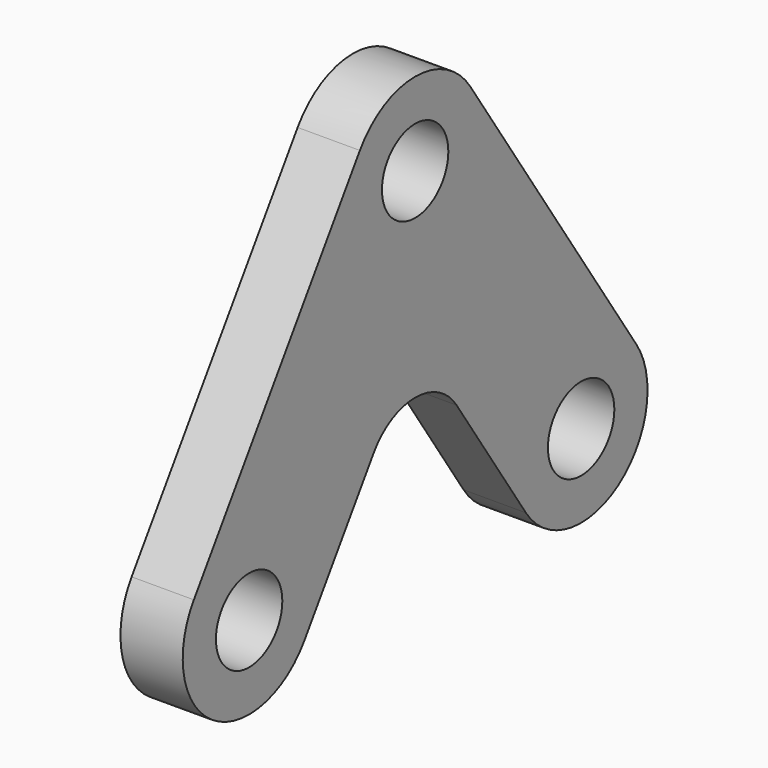
from build123d import *

# Parameters (mm, degrees)
F0_R     = 4
F1_DEPTH = 6


with BuildPart() as f1:
    # F0 (on Right) → F1 (new body)
    with BuildSketch(Plane.YZ):
        with BuildLine():
            Line((26.656402, -25.562398), (6.656402, 4.437602))
            ThreePointArc((6.656402, 4.437602), (0, 8), (-6.656402, 4.437602))
            Line((-6.656402, 4.437602), (-26.656402, -25.562398))
            ThreePointArc((-26.656402, -25.562398), (-24.437602, -36.656402), (-13.343598, -34.437602))
            Line((-13.343598, -34.437602), (-4.992302, -21.910658))
            ThreePointArc((-4.992302, -21.910658), (0, -19.238859), (4.992302, -21.910658))
            Line((4.992302, -21.910658), (13.343598, -34.437602))
            ThreePointArc((13.343598, -34.437602), (24.437602, -36.656402), (26.656402, -25.562398))
        make_face()
        with Locations((-20, -30)):
            Circle(F0_R, mode=Mode.SUBTRACT)
        with Locations((20, -30)):
            Circle(F0_R, mode=Mode.SUBTRACT)
        Circle(F0_R, mode=Mode.SUBTRACT)
    extrude(amount=F1_DEPTH)


solid = f1.part
